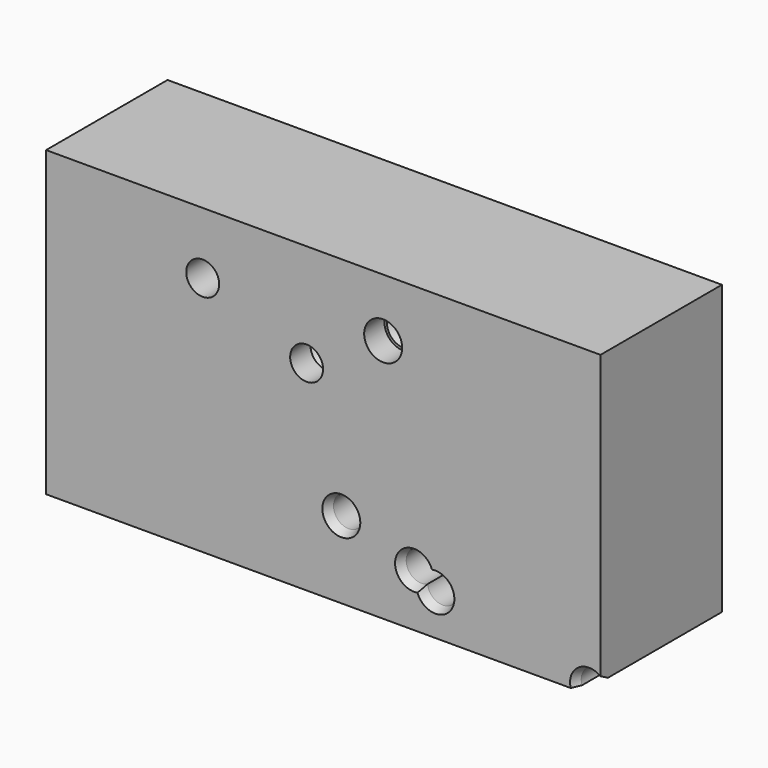
from build123d import *

# Parameters (mm, degrees)
F0_W           = 278.2998234034
F0_H           = 152.0985364914
F1_DEPTH       = 76.2
F3_D           = 16.51
F4_D           = 16.51
F4_DEPTH       = 12.7
F4_TIP         = 4.9601044101
F5_D           = 16.51
F5_DEPTH       = 12.7
F5_CBORE_D     = 19.05
F5_CBORE_DEPTH = 12.7
F5_TIP         = 4.9601044101
F6_D           = 15.24
F6_CSINK_D     = 19.05
F6_CSINK_ANGLE = 45
F7_D           = 15.24
F7_CSINK_D     = 19.05
F7_CSINK_ANGLE = 45


with BuildPart() as f1:
    # F0 (on Front) → F1 (new body)
    with BuildSketch(Plane.XZ):
        with Locations((2.0410194993, 1.6697347164)):
            Rectangle(F0_W, F0_H)
    extrude(amount=F1_DEPTH)

    # F3 (through all)
    with Locations(Plane.XZ.offset(76.2)):
        with Locations((-58.4882125258, 46.6711297631)):
            Hole(F3_D / 2)

    # F4
    with Locations(Plane.XZ.offset(76.2)):
        with Locations((-6.3315038569, 26.0829553008)):
            Hole(F4_D / 2, depth=F4_DEPTH)
            with Locations((0, 0, -(F4_DEPTH + F4_TIP / 2))):  # 118° drill point
                Cone(0, F4_D / 2, F4_TIP, mode=Mode.SUBTRACT)

    # F5
    with Locations(Plane.XZ.offset(76.2)):
        with Locations((32.0997536182, 48.455439508)):
            CounterBoreHole(F5_D / 2, F5_CBORE_D / 2, F5_CBORE_DEPTH, depth=F5_DEPTH)
            with Locations((0, 0, -(F5_DEPTH + F5_TIP / 2))):  # 118° drill point
                Cone(0, F5_D / 2, F5_TIP, mode=Mode.SUBTRACT)

    # F6 (through all)
    with Locations(Plane.XZ.offset(76.2)):
        with Locations((11.0998153687, -35.6815680861)):
            CounterSinkHole(F6_D / 2, F6_CSINK_D / 2, counter_sink_angle=F6_CSINK_ANGLE)

    # F7 (through all)
    with Locations(Plane.XZ.offset(76.2)):
        with Locations((135.4523897171, -71.9167515635), (47.6095117629, -47.8972196579), (58.315359056, -54.0736690164)):
            CounterSinkHole(F7_D / 2, F7_CSINK_D / 2, counter_sink_angle=F7_CSINK_ANGLE)


solid = f1.part
